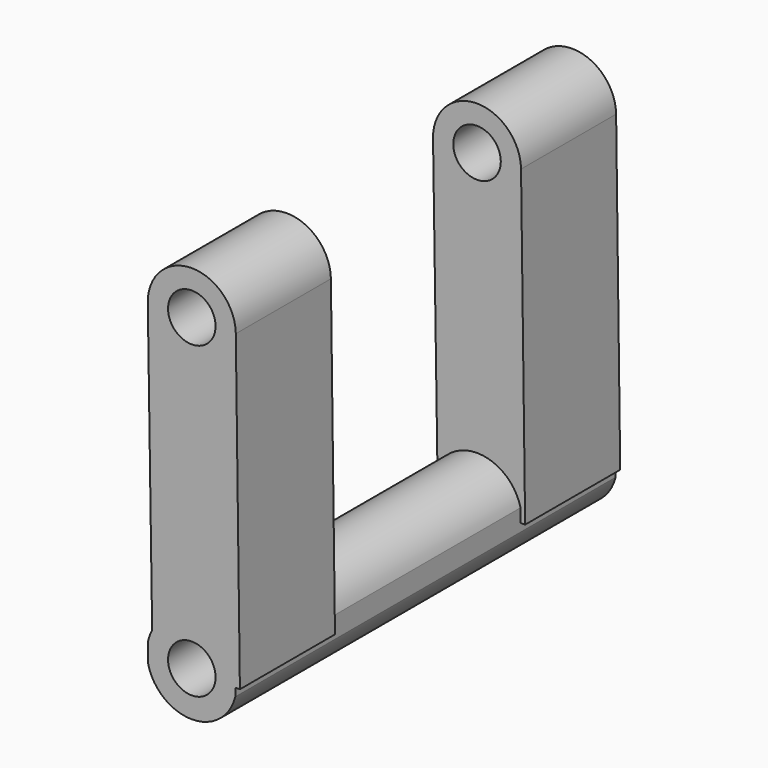
from build123d import *

# Parameters (mm, degrees)
F1_DEPTH = 50
F3_DEPTH = 25
F6_D     = 10


with BuildPart() as f1:
    # F0 (on Front) → F1 (new body)
    with BuildSketch(Plane.XZ):
        with BuildLine():
            Line((-9.229952, -19.379207), (-9.229952, -23.184515))
            ThreePointArc((-9.229952, -23.184515), (-0.179062, -30.704177), (9.150997, -23.533827))
            Line((9.150997, -23.533827), (9.150997, -19.029895))
            ThreePointArc((9.150997, -19.029895), (-0.179062, -11.859545), (-9.229952, -19.379207))
        make_face()
    extrude(amount=F1_DEPTH)

    # F2 (on Front) → F3 (join)
    with BuildSketch(Plane.XZ):
        with BuildLine():
            ThreePointArc((9.257771, 43.720222), (9.258368, 43.659507), (9.258567, 43.59879))
            ThreePointArc((9.258567, 43.59879), (0.070375, 34.34049), (-9.257498, 43.458044))
            Line((-9.257498, 43.458044), (-8.264562, -21.851944))
            Line((-8.264562, -21.851944), (10.117864, -21.851944))
            Line((10.117864, -21.851944), (9.257771, 43.720222))
        make_face()
        with BuildLine():
            ThreePointArc((-9.257498, 43.458044), (0.070375, 34.34049), (9.258567, 43.59879))
            ThreePointArc((9.258567, 43.59879), (9.258368, 43.659507), (9.257771, 43.720222))
            ThreePointArc((9.257771, 43.720222), (-0.131089, 52.856429), (-9.257498, 43.458044))
        make_face()
    extrude(amount=F3_DEPTH)

    # F4: F1 across face


with BuildPart() as f1_1:
    add(f1.part)
    add(f1.part.mirror(Plane(origin=(-0.010882, -50, -21.281861), x_dir=(1, 0, 0), z_dir=(0, -1, 0))))

    # F6 (through all)
    with Locations(Plane(origin=(0, 0, 0), x_dir=(-1, 0, 0), z_dir=(0, 1, 0))):
        with Locations((0, 43.720222), (0, -21.281861)):
            Hole(F6_D / 2)


solid = f1_1.part
